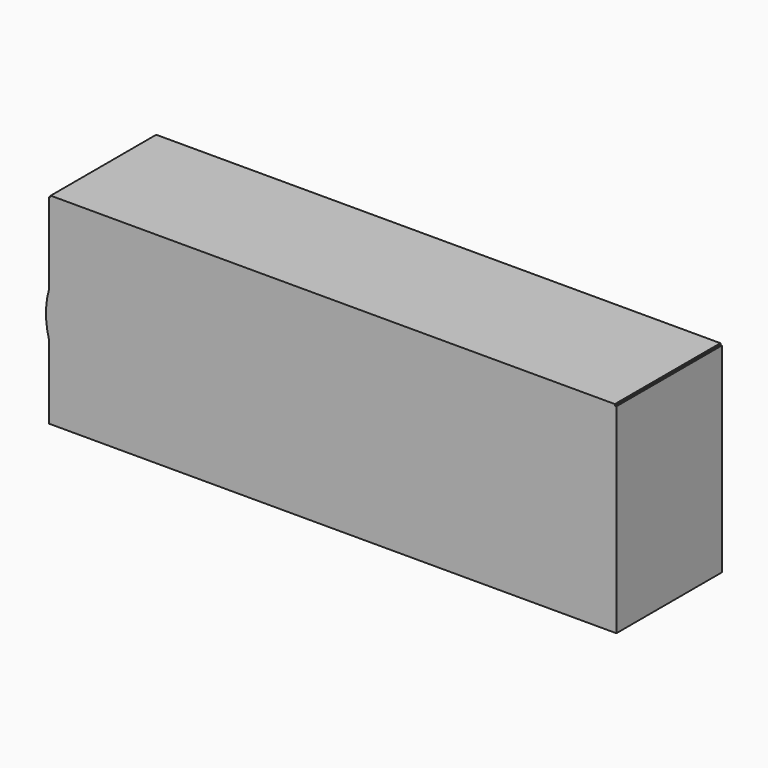
from build123d import *

# Parameters (mm, degrees)
F0_W     = 109.224658
F0_H     = 38.463522
F1_DEPTH = 25.4
F2_W     = 108.63743
F2_H     = 38.757138
F3_DEPTH = 25.4
F5_DEPTH = 25.4


with BuildPart() as f1:
    # F0 (on Front) → F1 (new body)
    with BuildSketch(Plane.XZ):
        with Locations((-0.734037, 22.755137)):
            Rectangle(F0_W, F0_H)
    extrude(amount=F1_DEPTH)

    # F2 (on Front) → F3 (join)
    with BuildSketch(Plane.XZ):
        with Locations((-0.734039, 22.901945)):
            Rectangle(F2_W, F2_H)
    extrude(amount=F3_DEPTH)

    # F4 (on Front) → F5 (join)
    with BuildSketch(Plane.XZ):
        with BuildLine():
            ThreePointArc((-51.677901, 32.926388), (-55.960342, 22.03506), (-51.677901, 11.143731))
            Line((-51.677901, 11.143731), (-51.677901, 32.926388))
        make_face()
        with BuildLine():
            Line((-29.331109, 33.973895), (-29.331109, 10.096224))
            ThreePointArc((-29.331109, 10.096224), (-23.978503, 22.03506), (-29.331109, 33.973895))
        make_face()
    extrude(amount=F5_DEPTH)


solid = f1.part
